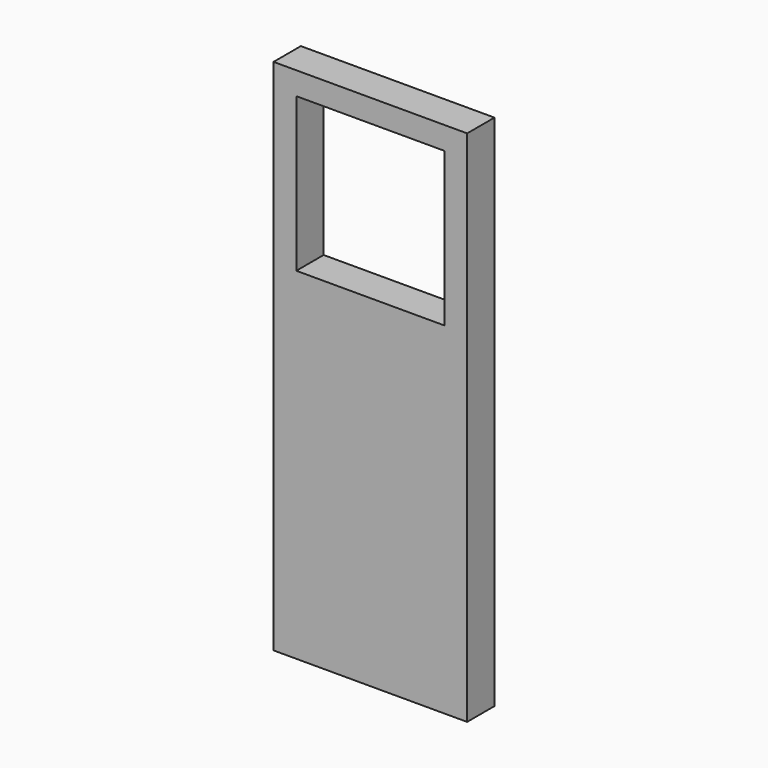
from build123d import *

# Parameters (mm, degrees)
F0_W     = 260
F0_H     = 40
F0_W_2   = 40
F0_W_3   = 220
F0_H_2   = 50
F0_H_3   = 490
F1_DEPTH = 60
F3_DEPTH = 40


with BuildPart() as f1:
    # F0 (on Front) → F1 (new body)
    with BuildSketch(Plane.XZ):
        with Locations((0, 435)):
            Rectangle(F0_W, F0_H)
        with Locations((150, 435)):
            Rectangle(F0_W_2, F0_H)
        with Locations((-150, 435)):
            Rectangle(F0_W_2, F0_H)
        Polygon((-130, 145), (-130, 415), (-170, 415), (-170, -395), (-110, -395), (-110, 95), (-110, 145), align=None)
        Polygon((170, -395), (170, 415), (130, 415), (130, 145), (110, 145), (110, 95), (110, -395), align=None)
        with Locations((0, 120)):
            Rectangle(F0_W_3, F0_H_2)
        Polygon((170, -455), (170, -395), (110, -395), (-110, -395), (-170, -395), (-170, -455), align=None)
        with Locations((0, -150)):
            Rectangle(F0_W_3, F0_H_3)
    extrude(amount=F1_DEPTH)

    # F2 (on face) → F3 (join)
    with BuildSketch(Plane.XZ.offset(60)):
        Polygon((-130, 145), (-130, 415), (130, 415), (130, 145), (130, 115), (170, 115), (170, 455), (-170, 455), (-170, 115), (-130, 115), align=None)
        Polygon((-130, 85), (-130, 115), (-170, 115), (-170, -455), (170, -455), (170, 115), (130, 115), (130, 85), align=None)
    extrude(amount=-F3_DEPTH)


solid = f1.part
